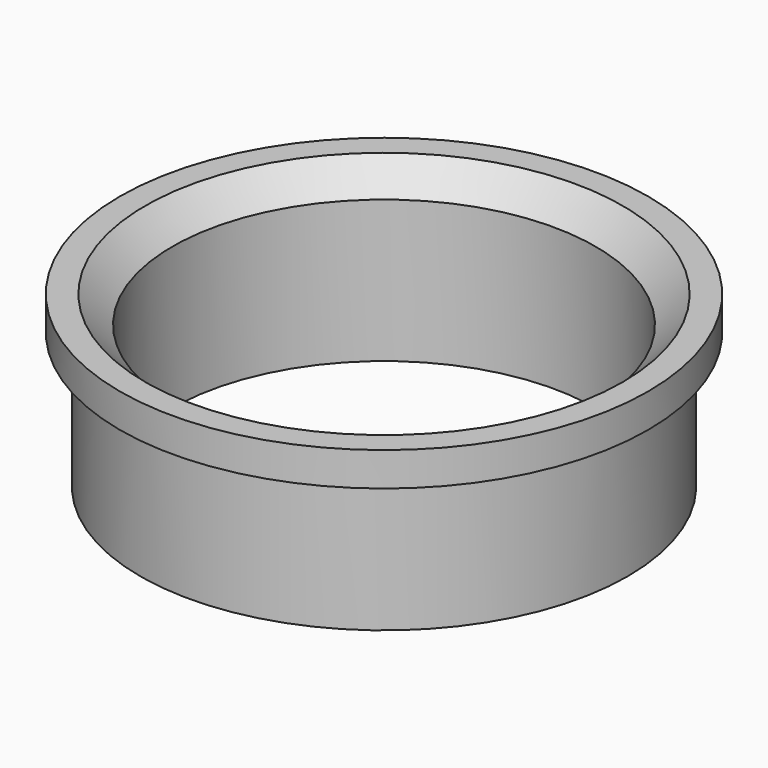
from build123d import *

# Parameters (mm, degrees)
F0_R     = 72
F1_DEPTH = 40
F2_R     = 78
F3_DEPTH = 10


with BuildPart() as f1:
    # F0 (on Top) → F1 (new body)
    with BuildSketch(Plane.XY):
        Circle(F0_R)
    extrude(amount=F1_DEPTH)

    # F2 (on face) → F3 (join)
    with BuildSketch(Plane.XY.offset(40)):
        Circle(F2_R)
    extrude(amount=F3_DEPTH)

    # F4 (on Front) → F5 (revolve, cut)
    with BuildSketch(Plane.XZ):
        Polygon((70.5, 50), (0, 50), (0, 0), (62.5, 0), (62.5, 42), align=None)
    revolve(axis=Axis((0, 0, 50), (0, 0, 1)), mode=Mode.SUBTRACT)


solid = f1.part
